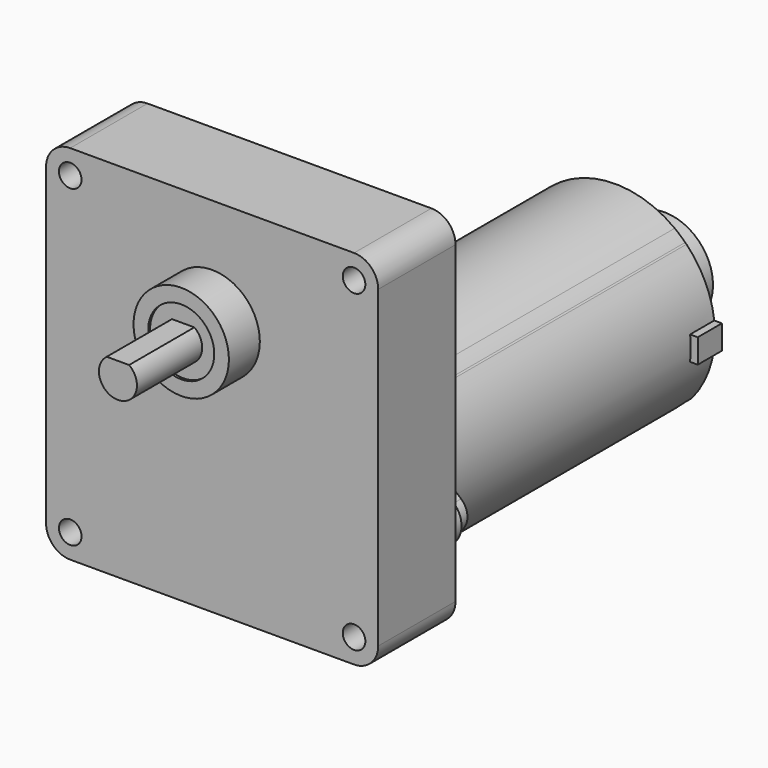
from build123d import *

# Parameters (mm, degrees)
F0_W      = 69.85
F0_H      = 76.2
F1_DEPTH  = 20.32
F2_R      = 5.08
F3_R      = 2.3749
F4_DEPTH  = 20.321
F5_R      = 10.0274789958
F6_DEPTH  = 8.128
F7_R      = 6.9469
F8_DEPTH  = 0.508
F10_DEPTH = 17.145
F11_R     = 10.9855
F12_DEPTH = 5.08
F11_R_2   = 5.08
F13_DEPTH = 6.35
F14_DEPTH = 6.35
F15_R     = 1.905
F16_DEPTH = 5.08
F18_R     = 1.927412261
F18_R_2   = 1.8880097215
F19_DEPTH = 3.048
F21_DEPTH = 76.2
F22_R     = 10.16
F23_DEPTH = 13.208
F25_DEPTH = 7.62
F27_DEPTH = 6.35


with BuildPart() as f1:
    # F0 (on Front) → F1 (new body)
    with BuildSketch(Plane.XZ):
        Rectangle(F0_W, F0_H)
    extrude(amount=F1_DEPTH)

    # F2
    f2_edges = [f1.edges().sort_by_distance(p)[0] for p in [
        (-34.925, -10.16, 38.1),
        (-34.925, -10.16, -38.1),
        (34.925, -10.16, -38.1),
        (34.925, -10.16, 38.1),
    ]]
    fillet(f2_edges, radius=F2_R)

    # F3 (on face) → F4 (cut, through all)
    with BuildSketch(Plane.XZ.offset(20.32)):
        with Locations((-29.845, 33.02)):
            Circle(F3_R)
        with Locations((29.845, 33.02)):
            Circle(F3_R)
        with Locations((-29.845, -33.02)):
            Circle(F3_R)
        with Locations((29.845, -33.02)):
            Circle(F3_R)
    extrude(amount=-F4_DEPTH, mode=Mode.SUBTRACT)

    # F5 (on face) → F6 (join)
    with BuildSketch(Plane.XZ.offset(20.32)):
        with Locations((0, 15.24)):
            Circle(F5_R)
    extrude(amount=F6_DEPTH)

    # F7 (on face) → F8 (cut)
    with BuildSketch(Plane.XZ.offset(28.448)):
        with Locations((0, 15.24)):
            Circle(F7_R)
    extrude(amount=-F8_DEPTH, mode=Mode.SUBTRACT)

    # F9 (on face) → F10 (join)
    with BuildSketch(Plane.XZ.offset(27.94)):
        with BuildLine():
            Line((2.3486417351, 18.4785), (-2.3486417351, 18.4785))
            ThreePointArc((-2.3486417351, 18.4785), (0, 11.2395), (2.3486417351, 18.4785))
        make_face()
    extrude(amount=F10_DEPTH)

    # F11 (on face) → F12 (join)
    with BuildSketch(Plane(origin=(0, 0, 0), x_dir=(-1, 0, 0), z_dir=(0, 1, 0))):
        with Locations((0, -22.86)):
            Circle(F11_R)
    extrude(amount=F12_DEPTH)

    # F11 (on face) → F13 (join)
    with BuildSketch(Plane(origin=(0, 0, 0), x_dir=(-1, 0, 0), z_dir=(0, 1, 0))):
        with Locations((26.035, -22.86)):
            Circle(F11_R_2)
    extrude(amount=F13_DEPTH)

    # F11 (on face) → F14 (join)
    with BuildSketch(Plane(origin=(0, 0, 0), x_dir=(-1, 0, 0), z_dir=(0, 1, 0))):
        with Locations((-26.035, -22.86)):
            Circle(F11_R_2)
    extrude(amount=F14_DEPTH)

    # F15 (on face) → F16 (cut)
    with BuildSketch(Plane(origin=(0, 5.08, 0), x_dir=(-1, 0, 0), z_dir=(0, 1, 0))):
        with Locations((0, -22.86)):
            Circle(F15_R)
    extrude(amount=-F16_DEPTH, mode=Mode.SUBTRACT)

    # F18 (on face) → F19 (join)
    with BuildSketch(Plane(origin=(0, 6.35, 0), x_dir=(-1, 0, 0), z_dir=(0, 1, 0))):
        with BuildLine():
            Line((-14.7449402664, -7.9254461452), (-28.5812491882, -19.9236759913))
            ThreePointArc((-28.5812491882, -19.9236759913), (-29.9214809801, -22.8854794861), (-28.5425313232, -25.8294562256))
            Line((-28.5425313232, -25.8294562256), (-14.7449402664, -37.4807112473))
            ThreePointArc((-14.7449402664, -37.4807112473), (0.0825790048, -43.6704553243), (14.9377645792, -37.5474069801))
            Line((14.9377645792, -37.5474069801), (28.3769337433, -25.961730155))
            ThreePointArc((28.3769337433, -25.961730155), (29.9185109104, -23.0140344812), (28.6152424237, -19.9535016519))
            Line((28.6152424237, -19.9535016519), (15.0339949064, -7.9553720766))
            ThreePointArc((15.0339949064, -7.9553720766), (0.1507626975, -1.7356597256), (-14.7449402664, -7.9254461452))
        make_face()
        with Locations((-26.035, -22.86)):
            Circle(F18_R, mode=Mode.SUBTRACT)
        with Locations((26.035, -22.86)):
            Circle(F18_R_2, mode=Mode.SUBTRACT)
    extrude(amount=F19_DEPTH)

    # F20 (on face) → F21 (join)
    with BuildSketch(Plane(origin=(0, 9.398, 0), x_dir=(-1, 0, 0), z_dir=(0, 1, 0))):
        with BuildLine():
            ThreePointArc((15.4071510025, -37.1427570095), (19.560406445, -30.5294042531), (21.0116482676, -22.8560827672))
            ThreePointArc((21.0116482676, -22.8560827672), (9.4227051618, -4.0757209402), (-12.5603957589, -6.0119199415))
            ThreePointArc((-12.5603957589, -6.0119199415), (-13.6858370585, -6.9308161687), (-14.7449402664, -7.9254461452))
            Line((-14.7449402664, -7.9254461452), (-15.0267070498, -8.16978173))
            ThreePointArc((-15.0267070498, -8.16978173), (-20.9946416555, -22.0108699669), (-16.15866039, -36.2869076608))
            Line((-16.15866039, -36.2869076608), (-14.7449402664, -37.4807112473))
            ThreePointArc((-14.7449402664, -37.4807112473), (0.0825790048, -43.6704553243), (14.9377645792, -37.5474069801))
            Line((14.9377645792, -37.5474069801), (15.4071510025, -37.1427570095))
        make_face()
    extrude(amount=F21_DEPTH)

    # F22 (on face) → F23 (join)
    with BuildSketch(Plane(origin=(0, 85.598, 0), x_dir=(-1, 0, 0), z_dir=(0, 1, 0))):
        with Locations((0.1296917782, -22.7030786963)):
            Circle(F22_R)
    extrude(amount=F23_DEPTH)

    # F24 (on face) → F25 (join)
    with BuildSketch(Plane(origin=(0, 85.598, 0), x_dir=(-1, 0, 0), z_dir=(0, 1, 0))):
        with BuildLine():
            Line((22.7089122915, -19.9516154365), (20.8099359068, -19.9516154365))
            ThreePointArc((20.8099359068, -19.9516154365), (21.0111071016, -22.7052806306), (20.8494821266, -25.4615497064))
            Line((20.8494821266, -25.4615497064), (22.7451570662, -25.4615497064))
            ThreePointArc((22.7451570662, -25.4615497064), (22.8934040546, -22.7054881808), (22.7089122915, -19.9516154365))
        make_face()
    extrude(amount=-F25_DEPTH)

    # F26 (on face) → F27 (join)
    with BuildSketch(Plane(origin=(0, 85.598, 0), x_dir=(-1, 0, 0), z_dir=(0, 1, 0))):
        with BuildLine():
            ThreePointArc((-20.8494821266, -25.4615497064), (-21.0115447656, -22.9220333613), (-20.8654271236, -20.3815497064))
            Line((-20.8654271236, -20.3815497064), (-22.4769224541, -20.3815497064))
            Line((-22.4769224541, -20.3815497064), (-22.4769224541, -25.4615497064))
            Line((-22.4769224541, -25.4615497064), (-20.8494821266, -25.4615497064))
        make_face()
    extrude(amount=-F27_DEPTH)


solid = f1.part
